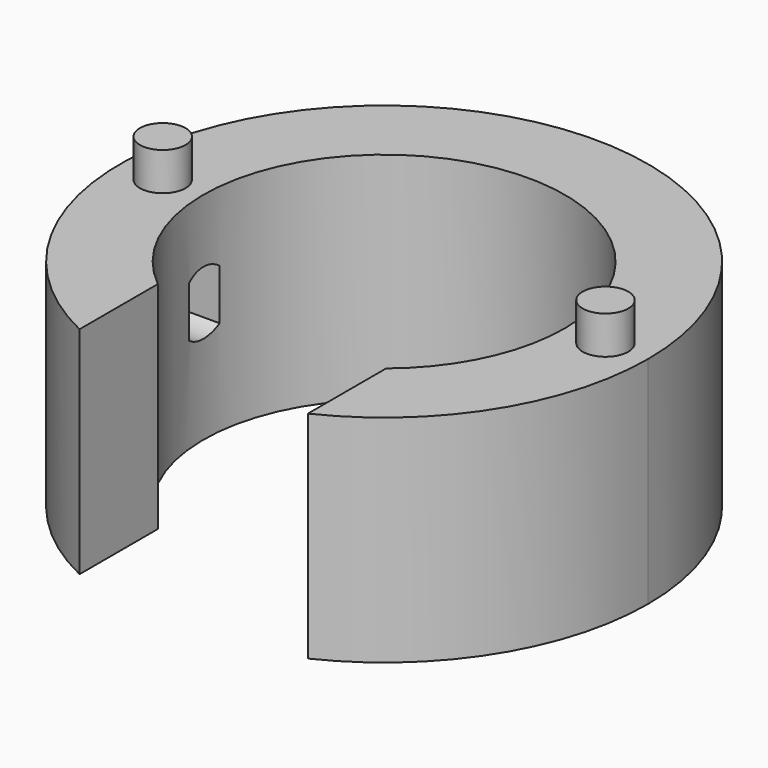
from build123d import *

# Parameters (mm, degrees)
F0_R     = 1.8
F1_DEPTH = 17
F2_DEPTH = 20
F5_DEPTH = 6.6367971034


with BuildPart() as f1:
    # F0 (on Top) → F1 (new body)
    with BuildSketch(Plane.XY):
        with BuildLine():
            ThreePointArc((-9, -11.048189897), (-6.1160649114, 12.8707517263), (14.25, 0))
            ThreePointArc((14.25, 0), (12.8707517263, -6.1160649114), (9, -11.048189897))
            Line((9, -11.048189897), (9, -18.7594200464))
            ThreePointArc((9, -18.7594200464), (17.6093087314, -11.0827833364), (20.8066297242, 0))
            ThreePointArc((20.8066297242, 0), (-11.0827833364, 17.6093087314), (-9, -18.7594200464))
            Line((-9, -18.7594200464), (-9, -11.048189897))
        make_face()
        with Locations((-17.45, 0)):
            Circle(F0_R, mode=Mode.SUBTRACT)
        with Locations((17.45, 0)):
            Circle(F0_R, mode=Mode.SUBTRACT)
        with Locations((17.45, 0)):
            Circle(F0_R)
        with Locations((-17.45, 0)):
            Circle(F0_R)
    extrude(amount=F1_DEPTH)

    # F0 (on Top) → F2 (join)
    with BuildSketch(Plane.XY):
        with Locations((17.45, 0)):
            Circle(F0_R)
        with Locations((-17.45, 0)):
            Circle(F0_R)
    extrude(amount=F2_DEPTH)

    # F4 (on plane+point) → F5 (cut, through all)
    with BuildSketch(Plane.YZ.offset(-20.8066297242)):
        with BuildLine():
            Line((1.5, 7.5), (1.5, 11.5))
            ThreePointArc((1.5, 11.5), (0, 12), (-1.5, 11.5))
            Line((-1.5, 11.5), (-1.5, 7.5))
            ThreePointArc((-1.5, 7.5), (0, 7), (1.5, 7.5))
        make_face()
    extrude(amount=F5_DEPTH, mode=Mode.SUBTRACT)


solid = f1.part
